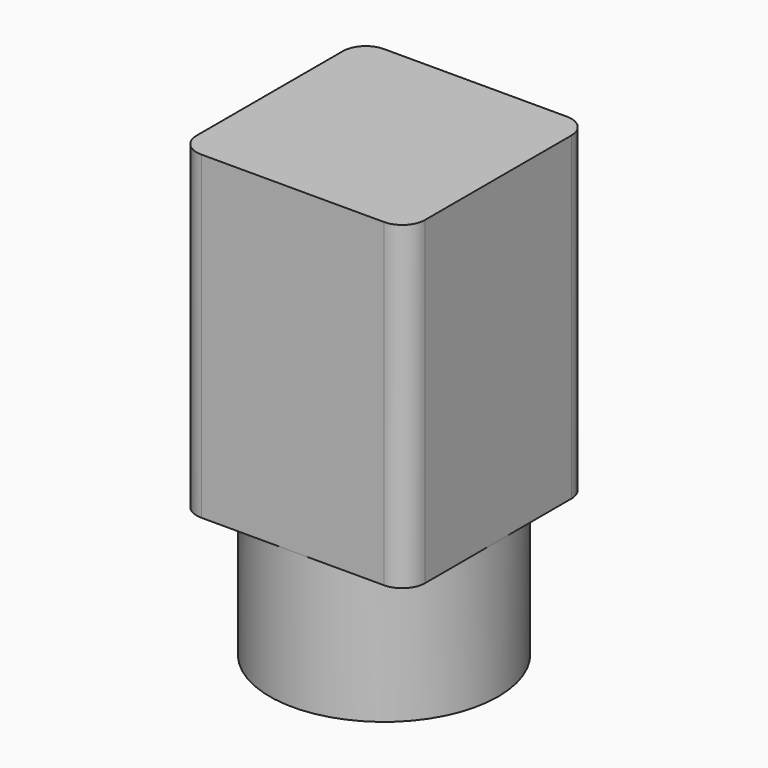
from build123d import *

# Parameters (mm, degrees)
F0_W     = 50
F0_H     = 70
F1_DEPTH = 25
F2_R     = 25
F3_DEPTH = 30
F4_R     = 5
F5_R     = 2.5
F6_DEPTH = 10


with BuildPart() as f1:
    # F0 (on Front) → F1 (new body, symmetric)
    with BuildSketch(Plane.XZ):
        Rectangle(F0_W, F0_H)
    extrude(amount=F1_DEPTH, both=True)

    # F2 (on face) → F3 (join)
    with BuildSketch(Plane(origin=(0, 0, -35), x_dir=(1, 0, 0), z_dir=(0, 0, -1))):
        Circle(F2_R)
    extrude(amount=F3_DEPTH)

    # F4
    f4_edges = [f1.edges().sort_by_distance(p)[0] for p in [
        (25, -25, 0),
        (-25, -25, 0),
        (-25, 25, 0),
        (25, 25, 0),
    ]]
    fillet(f4_edges, radius=F4_R)

    # F5 (on face) → F6 (cut)
    with BuildSketch(Plane(origin=(-25, 0, 0), x_dir=(0, -1, 0), z_dir=(-1, 0, 0))):
        Circle(F5_R)
    extrude(amount=-F6_DEPTH, mode=Mode.SUBTRACT)


solid = f1.part
